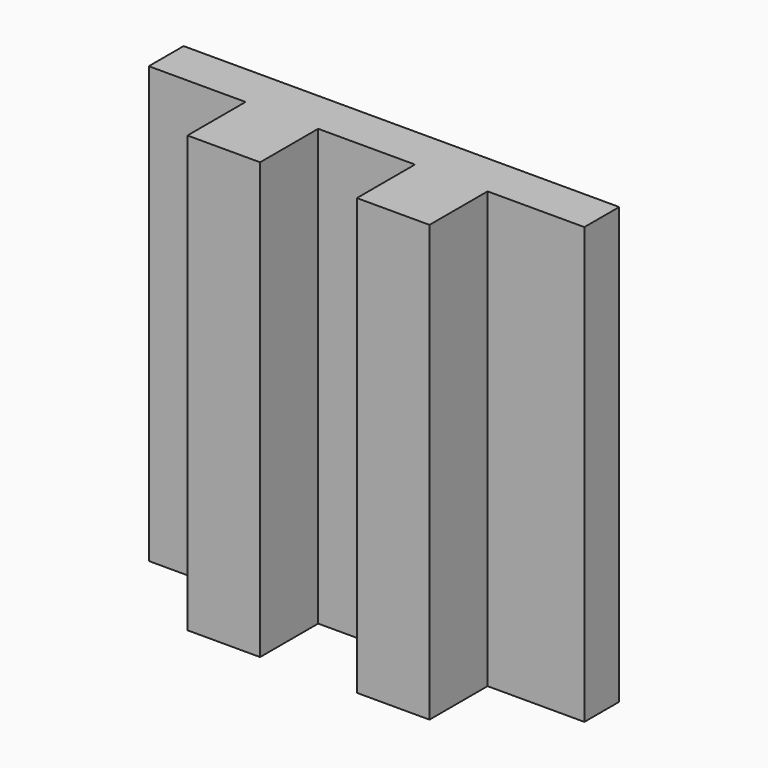
from build123d import *

# Parameters (mm, degrees)
F1_DEPTH = 4572
F2_SCALE = 0.0393700787
F3_ANGLE = 180


with BuildPart() as f1:
    # F0 (on Top) → F1 (new body)
    with BuildSketch(Plane.XY):
        Polygon((508, 0), (0, 0), (-508, 0), (-508, 762), (-1270, 762), (-1270, 0), (-2286, 0), (-2286, -457.2), (0, -457.2), (2286, -457.2), (2286, 0), (1270, 0), (1270, 762), (508, 762), align=None)
    extrude(amount=F1_DEPTH)


with BuildPart() as f1_1:
    # F2: moved
    add(f1.part.scale(F2_SCALE))


with BuildPart() as f1_2:
    # F3: moved
    add(f1_1.part.rotate(Axis((0, 0, 0), (1, 0, 0)), F3_ANGLE))


solid = f1_2.part
